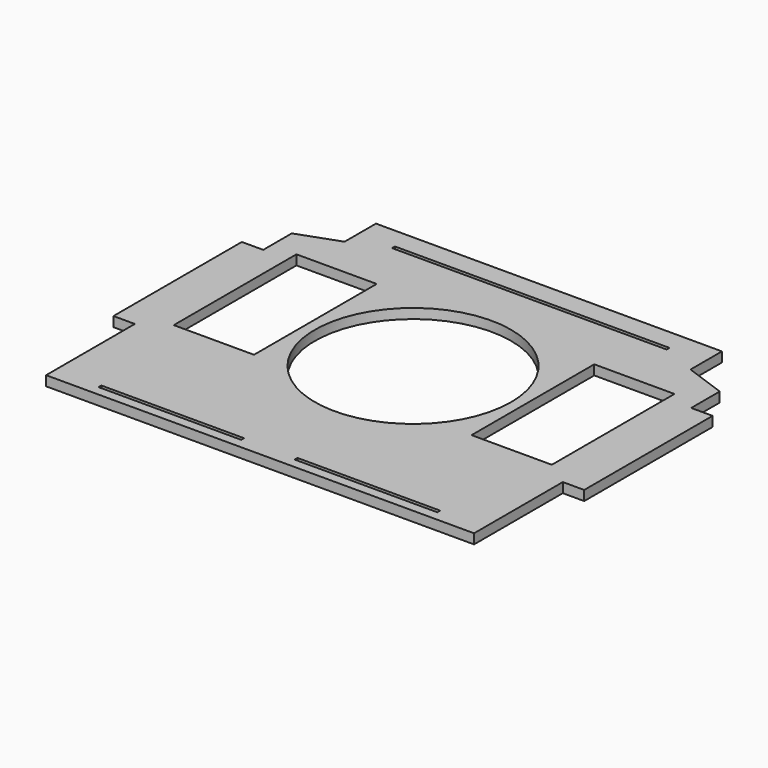
from build123d import *

# Parameters (mm, degrees)
F0_W     = 160
F0_H     = 4
F0_W_2   = 90
F0_H_2   = 172
F0_R     = 110
F0_W_3   = 308
F1_DEPTH = 11


with BuildPart() as f1:
    # F0 (on Top) → F1 (new body)
    with BuildSketch(Plane.XY):
        Polygon((-194, 202.5), (-194, 158.5), (-240, 141.926697), (-240, 101.926697), (-264, 101.926697), (-264, -78.073303), (-240, -78.073303), (-240, -202.5), (240, -202.5), (240, -78.073303), (264, -78.073303), (264, 101.926697), (240, 101.926697), (240, 141.926697), (194, 158.5), (194, 202.5), align=None)
        with Locations((-110, -189.5)):
            Rectangle(F0_W, F0_H, mode=Mode.SUBTRACT)
        with Locations((110, -189.5)):
            Rectangle(F0_W, F0_H, mode=Mode.SUBTRACT)
        with Locations((-167, 27.5)):
            Rectangle(F0_W_2, F0_H_2, mode=Mode.SUBTRACT)
        with Locations((0, 11.926697)):
            Circle(F0_R, mode=Mode.SUBTRACT)
        with Locations((167, 27.5)):
            Rectangle(F0_W_2, F0_H_2, mode=Mode.SUBTRACT)
        with Locations((0, 177)):
            Rectangle(F0_W_3, F0_H, mode=Mode.SUBTRACT)
    extrude(amount=F1_DEPTH)


solid = f1.part
